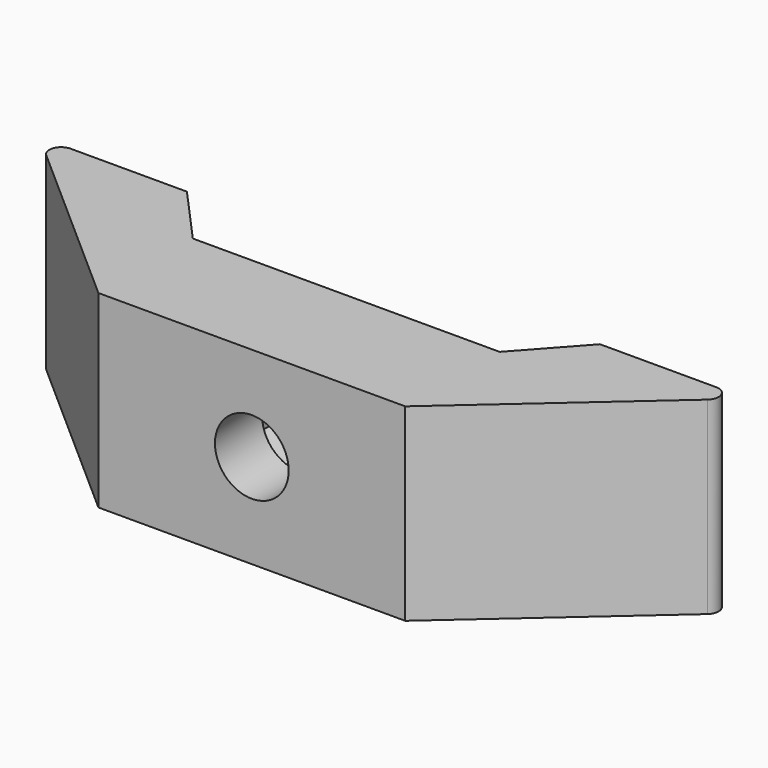
from build123d import *

# Parameters (mm, degrees)
F1_DEPTH = 16
F2_R     = 3.125
F3_DEPTH = 10
F4_DEPTH = 5
F5_R     = 1
F6_R     = 1


with BuildPart() as f1:
    # F0 (on Top) → F1 (new body)
    with BuildSketch(Plane.XY):
        Polygon((-17.5, 15), (-30, 15), (-13, 0), (0, 0), (13, 0), (30, 15), (17.5, 15), (13, 10), (0, 10), (-13, 10), align=None)
    extrude(amount=F1_DEPTH)

    # F2 (on face) → F3 (cut, through all)
    with BuildSketch(Plane(origin=(0, 10, 0), x_dir=(-1, 0, 0), z_dir=(0, 1, 0))):
        with Locations((0, 8)):
            Circle(F2_R)
    extrude(amount=-F3_DEPTH, mode=Mode.SUBTRACT)

    # F2 (on face) → F4 (cut)
    with BuildSketch(Plane(origin=(0, 10, 0), x_dir=(-1, 0, 0), z_dir=(0, 1, 0))):
        Polygon((-5.86727, 11.34993), (-5.823923, 4.65007), (0, 1.33768), (5.780575, 4.72515), (5.737227, 11.42501), (-0.086695, 14.7374), align=None)
        with Locations((0, 8)):
            Circle(F2_R, mode=Mode.SUBTRACT)
    extrude(amount=-F4_DEPTH, mode=Mode.SUBTRACT)

    # F5
    f5_edges = [f1.edges().sort_by_distance(p)[0] for p in [
        (30, 15, 8),
    ]]
    fillet(f5_edges, radius=F5_R)

    # F6
    f6_edges = [f1.edges().sort_by_distance(p)[0] for p in [
        (-30, 15, 8),
    ]]
    fillet(f6_edges, radius=F6_R)


solid = f1.part
